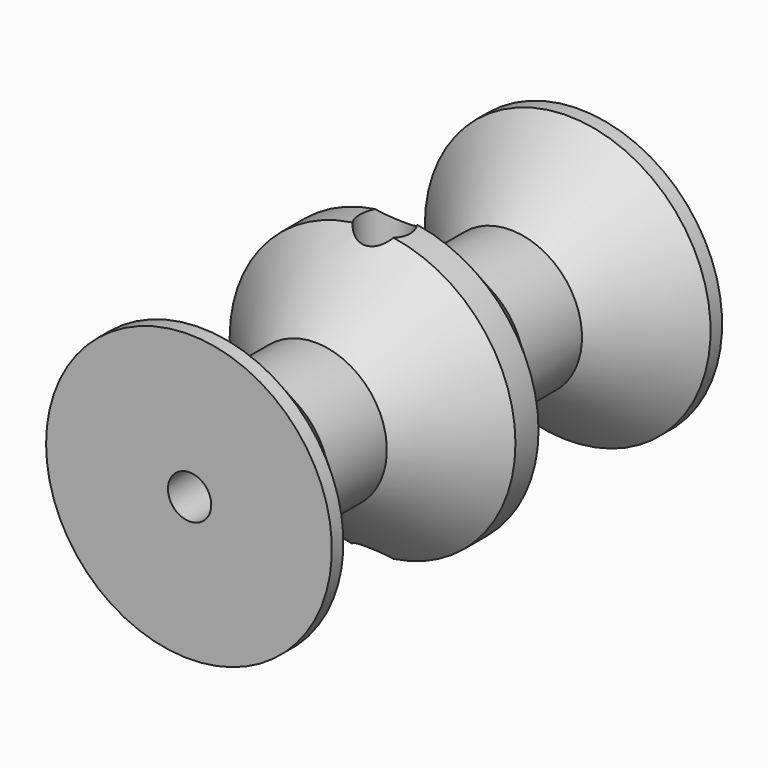
from build123d import *

# Parameters (mm, degrees)
F3_R     = 4.445
F4_DEPTH = 177.545717
F6_R     = 3.81
F7_DEPTH = 235.710434


with BuildPart() as f1:
    # F0 (on Top) → F1 (revolve)
    with BuildSketch(Plane.XY):
        Polygon((-12.572359, 12.572359), (-25.144717, 0), (-25.144717, -2.54), (0, -2.54), (0, 0), (0, 80.769434), (0, 83.309434), (-25.144717, 83.309434), (-25.144717, 80.769434), (-12.572359, 68.197076), (-12.572359, 55.497076), (-25.144717, 42.924717), (-25.144717, 40.384717), (-25.144717, 37.844717), (-12.572359, 25.272359), align=None)
    revolve(axis=Axis((0, 40.384717, 0), (0, -1, 0)))

    # F3 (on offset) → F4 (cut, through all)
    with BuildSketch(Plane.XY.offset(152.4)):
        with Locations((0.078337, 40.451534)):
            Circle(F3_R)
    extrude(amount=-F4_DEPTH, mode=Mode.SUBTRACT)

    # F6 (on offset) → F7 (cut, through all)
    with BuildSketch(Plane.XZ.offset(152.4)):
        with Locations((0.109616, -0.012402)):
            Circle(F6_R)
    extrude(amount=-F7_DEPTH, mode=Mode.SUBTRACT)


solid = f1.part
